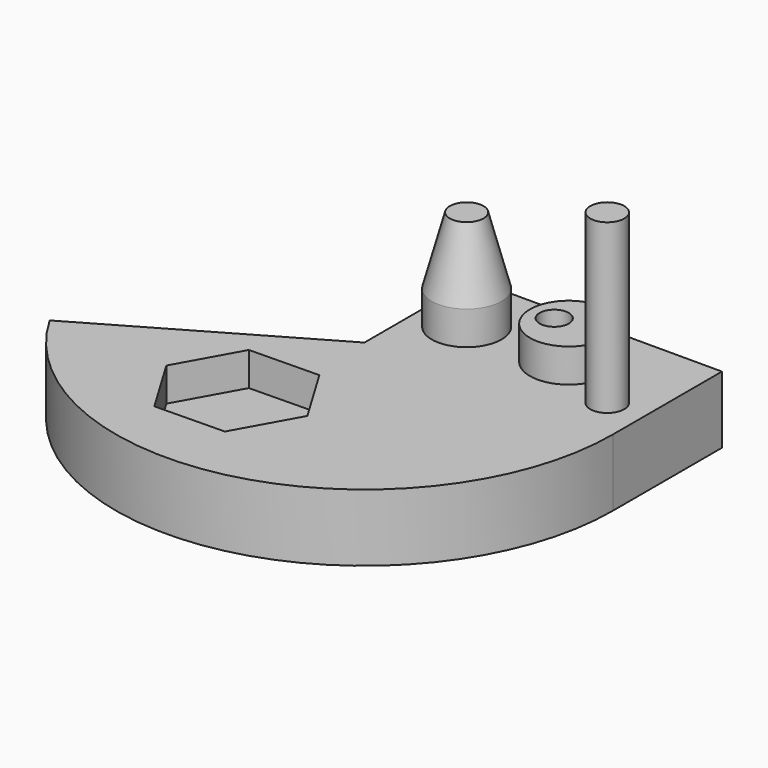
from build123d import *

# Parameters (mm, degrees)
F0_R      = 13.1789496922
F1_DEPTH  = 25.4
F0_R_2    = 14.6674866232
F0_R_3    = 5.4973214865
F0_W      = 94.0474122763
F0_H      = 51.4852851629
F0_R_4    = 6.4238066615
F2_DEPTH  = 12.7
F3_DEPTH  = 76.2
F1_FACE_R = 13.1789496922
F4_DEPTH  = 25.4
F4_TAPER  = 15
F2_FACE_W = 94.0474122763
F2_FACE_H = 25.4
F5_ANGLE  = 150
F7_DEPTH  = 12.7


with BuildPart() as f1:
    # F0 (on Top) → F1 (new body)
    with BuildSketch(Plane.XY):
        with Locations((17.2175206244, 26.8186014146)):
            Circle(F0_R)
    extrude(amount=F1_DEPTH)



with BuildPart() as f1b:
    # F0 (on Top) → F1, piece 2 (new body)
    with BuildSketch(Plane.XY):
        with Locations((54.7939687967, 28.1190406531)):
            Circle(F0_R_2)
        with Locations((49.2966473103, 28.1190406531)):
            Circle(F0_R_3, mode=Mode.SUBTRACT)
    extrude(amount=F1_DEPTH)


with BuildPart() as f1_1:
    add(f1.part)

    add(f1b.part)  # F2 merges F1b
    # F0 (on Top) → F2 (join, symmetric)
    with BuildSketch(Plane.XY):
        with Locations((47.0237061381, 25.7426425815)):
            Rectangle(F0_W, F0_H)
        with Locations((80.1606476307, 14.6344061941)):
            Circle(F0_R_4, mode=Mode.SUBTRACT)
        with Locations((17.2175206244, 26.8186014146)):
            Circle(F0_R, mode=Mode.SUBTRACT)
        with Locations((54.7939687967, 28.1190406531)):
            Circle(F0_R_2, mode=Mode.SUBTRACT)
    extrude(amount=F2_DEPTH, both=True)

    # F0 (on Top) → F3 (join)
    with BuildSketch(Plane.XY):
        with Locations((80.1606476307, 14.6344061941)):
            Circle(F0_R_4)
    extrude(amount=F3_DEPTH)

    # F1_face (on face) → F4 (join)
    with BuildSketch(Plane(origin=(17.2175206244, 26.8186014146, 25.4), x_dir=(1, 0, 0), z_dir=(0, 0, 1))):
        Circle(F1_FACE_R)
    extrude(amount=F4_DEPTH, taper=F4_TAPER)

    # F2_face (on face) → F5 (revolve)
    with BuildSketch(Plane(origin=(47.0237061381, 0, 0), x_dir=(1, 0, 0), z_dir=(0, -1, 0))):
        Rectangle(F2_FACE_W, F2_FACE_H)
    revolve(axis=Axis((0, 0, 0), (0, 0, -1)), revolution_arc=F5_ANGLE)

    # F6 (on face) → F7 (cut)
    with BuildSketch(Plane.XY.offset(12.7)):
        Polygon((16.165189955, -47.1866849835), (2.6281359163, -24.5952483242), (-23.705149158, -25.0229626845), (-36.5013801936, -48.042113704), (-22.9643261549, -70.6335503633), (3.3689589194, -70.205836003), align=None)
    extrude(amount=-F7_DEPTH, mode=Mode.SUBTRACT)


solid = f1_1.part
